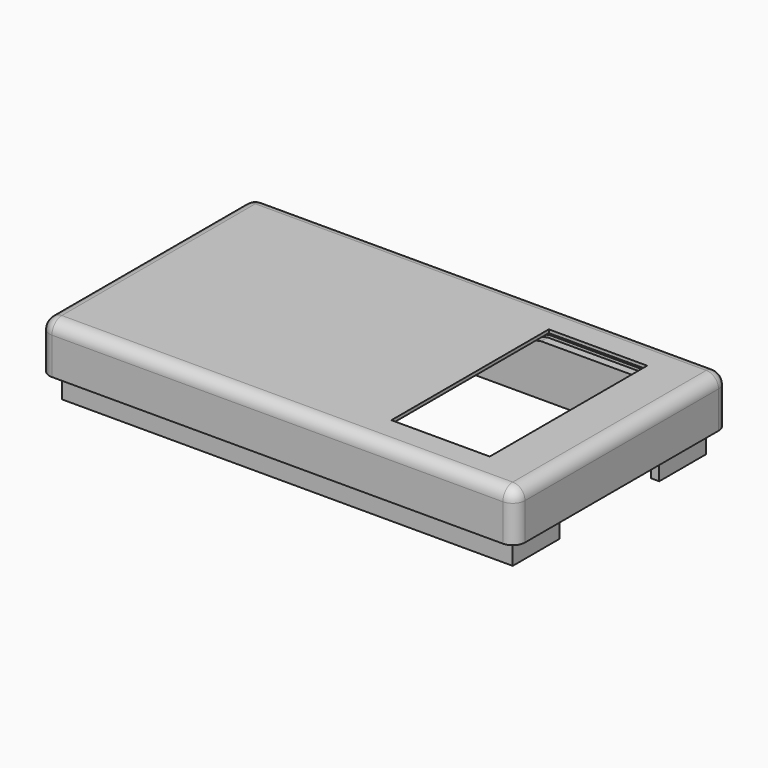
from build123d import *

# Parameters (mm, degrees)
SKETCH038_W          = 55
SKETCH038_H          = 29.5
PAD009_DEPTH         = 4.5
THICKNESS003_T       = 1.5
SKETCH039_W          = 55
SKETCH039_H          = 29.5
SKETCH039_W_2        = 53
SKETCH039_H_2        = 27.5
PAD010_DEPTH         = 4.5
PAD010_DEPTH_BACK    = 3
SKETCH040_W          = 15.180022
SKETCH040_H          = 15.677626
POCKET024_DEPTH      = 29.001
POCKET024_DEPTH_BACK = 29.001
SKETCH043_W          = 20
SKETCH043_H          = 27
SKETCH043_W_2        = 29.5
SKETCH043_H_2        = 27.5
POCKET026_DEPTH      = 1.1
SKETCH042_W          = 12
SKETCH042_H          = 24
POCKET029_DEPTH      = 6.001
POCKET030_DEPTH      = 14.75
CHAMFER006_SIZE      = 0.75


with BuildPart() as part:
    # Sketch038 → Pad009 (new body)
    with BuildSketch(Plane.XY):
        Rectangle(SKETCH038_W, SKETCH038_H)
    extrude(amount=PAD009_DEPTH)

    # Thickness003
    thickness003_openings = [part.faces().sort_by_distance(p)[0] for p in [
        (0, 0, 0),
    ]]
    offset(amount=THICKNESS003_T, openings=thickness003_openings)

    # Sketch039 → Pad010 (join, two sides)
    with BuildSketch(Plane.XY) as pad010_sk:
        Rectangle(SKETCH039_W, SKETCH039_H)
        Rectangle(SKETCH039_W_2, SKETCH039_H_2, mode=Mode.SUBTRACT)
    extrude(amount=PAD010_DEPTH)
    extrude(pad010_sk.sketch, amount=-PAD010_DEPTH_BACK)

    # Sketch040 → Pocket024 (cut, two sides)
    with BuildSketch(Plane.YZ) as pocket024_sk:
        with Locations((0, -7.838813)):
            Rectangle(SKETCH040_W, SKETCH040_H)
    extrude(amount=POCKET024_DEPTH, mode=Mode.SUBTRACT)
    extrude(pocket024_sk.sketch, amount=-POCKET024_DEPTH_BACK, mode=Mode.SUBTRACT)

    # Sketch043 → Pocket026 (cut)
    with BuildSketch(Plane.XY.offset(4.5)):
        with Locations((13.75, 0)):
            Rectangle(SKETCH043_W, SKETCH043_H)
        with Locations((-12.75, 0)):
            Rectangle(SKETCH043_W_2, SKETCH043_H_2)
    extrude(amount=POCKET026_DEPTH, mode=Mode.SUBTRACT)

    # Sketch042 → Pocket029 (cut, through all)
    with BuildSketch(Plane.XY):
        with Locations((16.5, 0)):
            Rectangle(SKETCH042_W, SKETCH042_H)
    extrude(amount=POCKET029_DEPTH, mode=Mode.SUBTRACT)

    # Sketch051 → Pocket030 (cut, symmetric)
    with BuildSketch(Plane.XZ):
        Polygon((23, 3.25), (23, 4.25), (7.978224, 4.25), (0.497934, 2.75), (-22, 2.75), (-22, 1.75), (0.696514, 1.75), (8.176805, 3.25), align=None)
    extrude(amount=POCKET030_DEPTH, both=True, mode=Mode.SUBTRACT)

    # Chamfer006
    chamfer006_edges = [part.edges().sort_by_distance(p)[0] for p in [
        (0.497934, -14.25, 2.75),
        (-22, 14.75, 2.25),
        (-10.751033, 14.75, 2.75),
        (4.238079, 14.75, 3.5),
        (7.978224, -14.25, 4.25),
        (15.489112, -14.75, 4.25),
    ]]
    chamfer(chamfer006_edges, length=CHAMFER006_SIZE)


with BuildPart() as part_1:
    # Body004 placement: moved
    add(part.part.moved(Location((0, 0, 13.5))))


solid = part_1.part
